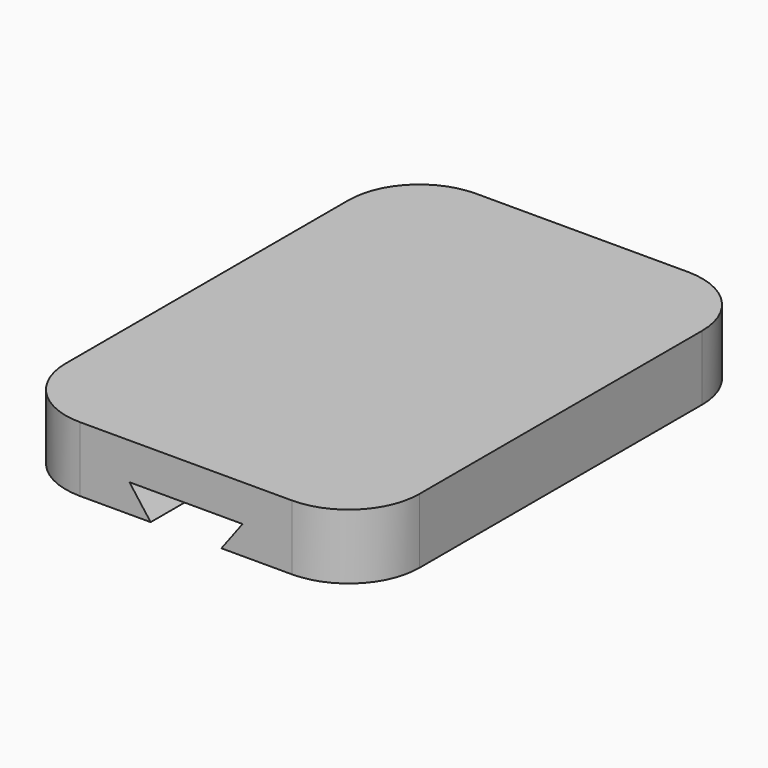
from build123d import *

# Parameters (mm, degrees)
F0_W     = 31.75
F0_H     = 44.45
F1_DEPTH = 5.842
F2_R     = 6.35
F4_DEPTH = 38.1


with BuildPart() as f1:
    # F0 (on Top) → F1 (new body)
    with BuildSketch(Plane.XY):
        Rectangle(F0_W, F0_H)
    extrude(amount=F1_DEPTH)

    # F2
    f2_edges = [f1.edges().sort_by_distance(p)[0] for p in [
        (15.875, 22.225, 2.921),
        (-15.875, 22.225, 2.921),
        (-15.875, -22.225, 2.921),
        (15.875, -22.225, 2.921),
    ]]
    fillet(f2_edges, radius=F2_R)

    # F3 (on face) → F4 (cut)
    with BuildSketch(Plane.XZ.offset(22.225)):
        Polygon((5.08, 2.54), (0, 2.54), (-5.08, 2.54), (-3.175, 0), (3.175, 0), align=None)
    extrude(amount=-F4_DEPTH, mode=Mode.SUBTRACT)


solid = f1.part
